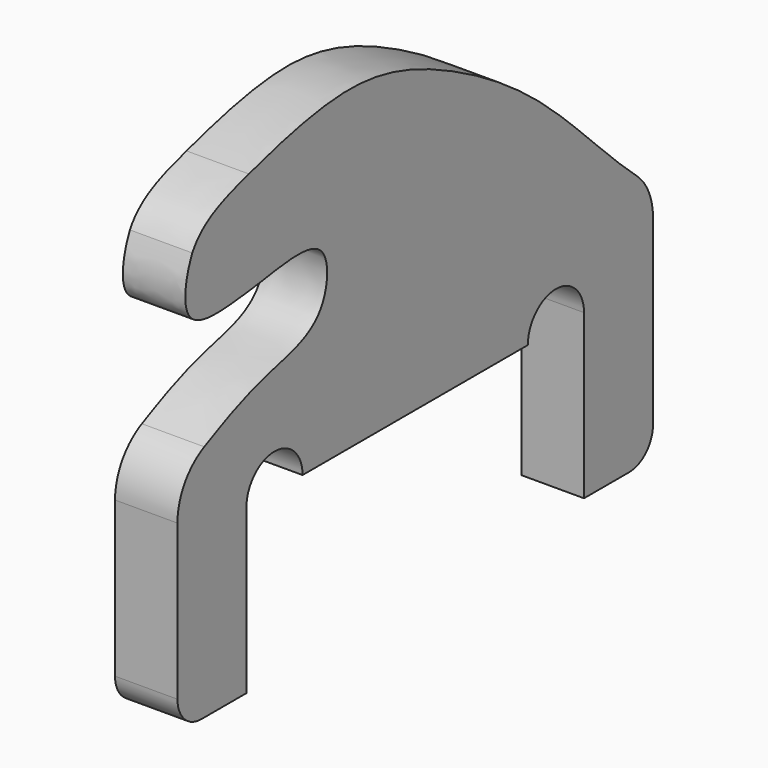
from build123d import *

# Parameters (mm, degrees)
F1_DEPTH = 5.334
F3_DEPTH = 5.3350001
F4_R     = 5.08
F5_R     = 2.54
F6_W     = 36.068
F6_H     = 13.97
F7_DEPTH = 17.78
F8_R     = 3
F9_DEPTH = 25.4


with BuildPart() as f1:
    # F0 (on Right) → F1 (new body)
    with BuildSketch(Plane.YZ):
        with BuildLine():
            Line((-50.8, 11.43), (0, 11.43))
            Line((0, 11.43), (0, 57.15))
            add(Edge.make_bspline(
                [(0, 57.15), (-5.0864698629, 56.4354143524), (-33.0306025683, 52.8582353512), (-40.9902625249, 52.5659859038), (-49.0611626862, 49.6942699568), (-51.0854872261, 40.966135658), (-44.5636889928, 41.3799068183), (-41.3822269171, 41.8054239397), (-34.4252354146, 42.8947705402), (-34.7579917432, 36.8022554531), (-38.7459499638, 34.8204749581), (-43.0560316299, 34.3391200928), (-49.0676849442, 31.2087605884), (-50.8, 30.4399446528)],
                knots=[0, 0, 0, 0, 0.1878700993, 0.2909777412, 0.3815785793, 0.4646880591, 0.5355583295, 0.601659826, 0.6791143746, 0.7462010786, 0.8103759885, 0.89875752, 0.9468801373, 0.9468801373, 0.9468801373, 0.9468801373], degree=3))
            Line((-50.8, 30.4399446528), (-50.8, 11.43))
        make_face()
    extrude(amount=F1_DEPTH)

    # F2 (on face) → F3 (cut, through all)
    with BuildSketch(Plane.YZ.offset(5.334)):
        with BuildLine():
            add(Edge.make_bspline(
                [(-43.1693890139, 50.388118398), (-39.7406359516, 51.3934960231), (-31.7182572435, 53.5175740522), (-21.6443977008, 49.82088335), (-10.8654291215, 43.1109471619), (-0.4289153334, 31.0209751225), (8.6297517382, 27.9005714688), (9.708355156, -7.7185275745), (30.1667757831, 99.5192737608), (-76.3935103956, 48.5795673993), (-50.2748634043, 38.1811857896), (-50.3174004116, 48.1507766506), (-45.8470825407, 49.6029661546), (-43.1693890139, 50.388118398)],
                knots=[0, 0, 0, 0, 0.0751825419, 0.1465137079, 0.2263287662, 0.3133956971, 0.3838267121, 0.4666822969, 0.630919419, 0.8154599942, 0.8837684012, 0.9412860005, 1, 1, 1, 1], degree=3))
        make_face()
    extrude(amount=-F3_DEPTH, mode=Mode.SUBTRACT)

    # F4
    f4_edges = [f1.edges().sort_by_distance(p)[0] for p in [
        (2.667, -50.8, 30.439945),
        (2.667, 0, 32.000665),
    ]]
    fillet(f4_edges, radius=F4_R)

    # F5
    f5_edges = [f1.edges().sort_by_distance(p)[0] for p in [
        (2.667, -50.8, 11.43),
        (2.667, 0, 11.43),
    ]]
    fillet(f5_edges, radius=F5_R)

    # F6 (on face) → F7 (cut)
    with BuildSketch(Plane.YZ.offset(5.334)):
        with Locations((-25.4, 18.415)):
            Rectangle(F6_W, F6_H)
    extrude(amount=-F7_DEPTH, mode=Mode.SUBTRACT)

    # F8 (on face) → F9 (cut)
    with BuildSketch(Plane.YZ.offset(5.334)):
        with Locations((-10.366, 25.4)):
            Circle(F8_R)
        with Locations((-40.434, 25.4)):
            Circle(F8_R)
    extrude(amount=-F9_DEPTH, mode=Mode.SUBTRACT)


solid = f1.part
